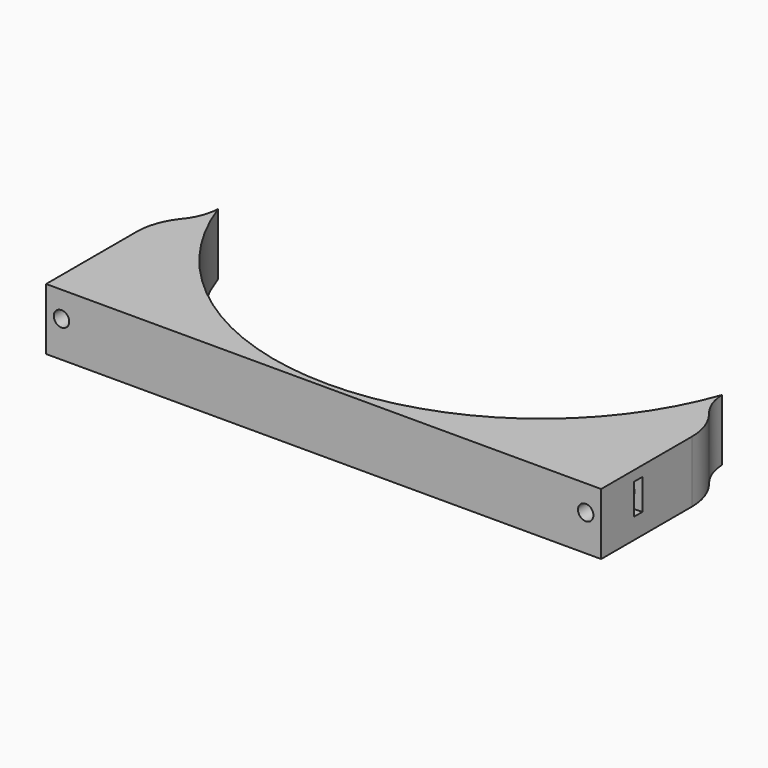
from build123d import *

# Parameters (mm, degrees)
CYLINDER1391_R               = 1.5
CYLINDER1391_DEPTH           = 20
CYLINDER1390_R               = 1.5
CYLINDER1390_DEPTH           = 20
CYLINDER1385_R               = 1.5
CYLINDER1385_DEPTH           = 20
CYLINDER1389_R               = 1.5
CYLINDER1389_DEPTH           = 20
BOX514_W                     = 6
BOX514_H                     = 2
BOX514_DEPTH                 = 6
BOX511_W                     = 6
BOX511_H                     = 2
BOX511_DEPTH                 = 6
BOX513_W                     = 6
BOX513_H                     = 2
BOX513_DEPTH                 = 6
BOX512_W                     = 6
BOX512_H                     = 2
BOX512_DEPTH                 = 6
CYLINDER1392_R               = 4
CYLINDER1392_DEPTH           = 20
CYLINDER1392_PLACEMENT_ANGLE = 45
CYLINDER1387_R               = 4
CYLINDER1387_DEPTH           = 20
CYLINDER1387_PLACEMENT_ANGLE = 45
CYLINDER1384_R               = 10
CYLINDER1384_DEPTH           = 40
CYLINDER1388_R               = 10
CYLINDER1388_DEPTH           = 40
CYLINDER1386_R               = 52
CYLINDER1386_DEPTH           = 20
BOX510_W                     = 108
BOX510_H                     = 36
BOX510_DEPTH                 = 12
FILLET022_R                  = 12


with BuildPart() as obj1:
    # Cylinder1391 → Cylinder1391 (new body)
    with BuildSketch(Plane(origin=(20, -40, -5), x_dir=(1, 0, 0), z_dir=(0, -1, 0))):
        Circle(CYLINDER1391_R)
    extrude(amount=CYLINDER1391_DEPTH)


with BuildPart() as obj2:
    # Cylinder1390 → Cylinder1390 (new body)
    with BuildSketch(Plane(origin=(51, -40, 7), x_dir=(1, 0, 0), z_dir=(0, -1, 0))):
        Circle(CYLINDER1390_R)
    extrude(amount=CYLINDER1390_DEPTH)


with BuildPart() as obj3:
    # Cylinder1385 → Cylinder1385 (new body)
    with BuildSketch(Plane(origin=(-51, -40, 7), x_dir=(1, 0, 0), z_dir=(0, -1, 0))):
        Circle(CYLINDER1385_R)
    extrude(amount=CYLINDER1385_DEPTH)


with BuildPart() as compound879:
    # Cylinder1389 → Cylinder1389 (new body)
    with BuildSketch(Plane(origin=(-20, -40, -5), x_dir=(1, 0, 0), z_dir=(0, -1, 0))):
        Circle(CYLINDER1389_R)
    extrude(amount=CYLINDER1389_DEPTH)

    # Compound879: union obj1, obj2, obj3
    add(obj1.part)
    add(obj2.part)
    add(obj3.part)


with BuildPart() as krychle514:
    # Box514 → Box514 (new body)
    with BuildSketch(Plane(origin=(17, -47, -8), x_dir=(1, 0, 0), z_dir=(0, 0, 1))):
        with Locations((3, 1)):
            Rectangle(BOX514_W, BOX514_H)
    extrude(amount=BOX514_DEPTH)


with BuildPart() as krychle511:
    # Box511 → Box511 (new body)
    with BuildSketch(Plane(origin=(48, -45, 4), x_dir=(1, 0, 0), z_dir=(0, 0, 1))):
        with Locations((3, 1)):
            Rectangle(BOX511_W, BOX511_H)
    extrude(amount=BOX511_DEPTH)


with BuildPart() as krychle513:
    # Box513 → Box513 (new body)
    with BuildSketch(Plane(origin=(-54, -45, 4), x_dir=(1, 0, 0), z_dir=(0, 0, 1))):
        with Locations((3, 1)):
            Rectangle(BOX513_W, BOX513_H)
    extrude(amount=BOX513_DEPTH)


with BuildPart() as compound877:
    # Box512 → Box512 (new body)
    with BuildSketch(Plane(origin=(-23, -47, -8), x_dir=(1, 0, 0), z_dir=(0, 0, 1))):
        with Locations((3, 1)):
            Rectangle(BOX512_W, BOX512_H)
    extrude(amount=BOX512_DEPTH)

    # Compound877: union Krychle514, Krychle511, Krychle513
    add(krychle514.part)
    add(krychle511.part)
    add(krychle513.part)


with BuildPart() as obj4:
    # Cylinder1392 → Cylinder1392 (new body)
    with BuildSketch(Plane.XY):
        Circle(CYLINDER1392_R)
    extrude(amount=CYLINDER1392_DEPTH)


with BuildPart() as obj4_1:
    # Cylinder1392 placement: moved
    add(obj4.part.moved(Location((39.6, -39.6, -10))).rotate(Axis((39.6, -39.6, -10), (0, 0, 1)), CYLINDER1392_PLACEMENT_ANGLE))


with BuildPart() as compound876:
    # Cylinder1387 → Cylinder1387 (new body)
    with BuildSketch(Plane.XY):
        Circle(CYLINDER1387_R)
    extrude(amount=CYLINDER1387_DEPTH)


with BuildPart() as compound876_1:
    # Cylinder1387 placement: moved
    add(compound876.part.moved(Location((-39.6, -39.6, -10))).rotate(Axis((-39.6, -39.6, -10), (0, 0, -1)), CYLINDER1387_PLACEMENT_ANGLE))

    # Compound876: union obj4
    add(obj4_1.part)


with BuildPart() as obj5:
    # Cylinder1384 → Cylinder1384 (new body)
    with BuildSketch(Plane(origin=(-59, -17, 0), x_dir=(1, 0, 0), z_dir=(0, 0, 1))):
        Circle(CYLINDER1384_R)
    extrude(amount=CYLINDER1384_DEPTH)


with BuildPart() as compound878:
    # Cylinder1388 → Cylinder1388 (new body)
    with BuildSketch(Plane(origin=(59, -17, 0), x_dir=(1, 0, 0), z_dir=(0, 0, 1))):
        Circle(CYLINDER1388_R)
    extrude(amount=CYLINDER1388_DEPTH)

    # Compound878: union obj5
    add(obj5.part)


with BuildPart() as obj6:
    # Cylinder1386 → Cylinder1386 (new body)
    with BuildSketch(Plane.XY.offset(20)):
        Circle(CYLINDER1386_R)
    extrude(amount=CYLINDER1386_DEPTH)


with BuildPart() as fillet022:
    # Box510 → Box510 (new body)
    with BuildSketch(Plane(origin=(-54, -53, 20), x_dir=(1, 0, 0), z_dir=(0, 0, 1))):
        with Locations((54, 18)):
            Rectangle(BOX510_W, BOX510_H)
    extrude(amount=BOX510_DEPTH)

    # Cut498: cut obj6
    add(obj6.part, mode=Mode.SUBTRACT)


with BuildPart() as fillet022_1:
    # Cut498 placement: moved
    add(fillet022.part.moved(Location((0, 0, -20))))

    # Cut499: cut Compound878
    add(compound878.part, mode=Mode.SUBTRACT)

    # Cut496: cut Compound876
    add(compound876_1.part, mode=Mode.SUBTRACT)

    # Cut497: cut Compound877
    add(compound877.part, mode=Mode.SUBTRACT)

    # Cut495: cut Compound879
    add(compound879.part, mode=Mode.SUBTRACT)

    # Fillet022
    fillet022_edges = [fillet022_1.edges().sort_by_distance(p)[0] for p in [
        (-54, -25.660254, 6),
        (54, -25.660254, 6),
    ]]
    fillet(fillet022_edges, radius=FILLET022_R)


with BuildPart() as fillet022_2:
    # Fillet022 placement: moved
    add(fillet022_1.part.moved(Location((0, 0, -6))))


solid = fillet022_2.part
